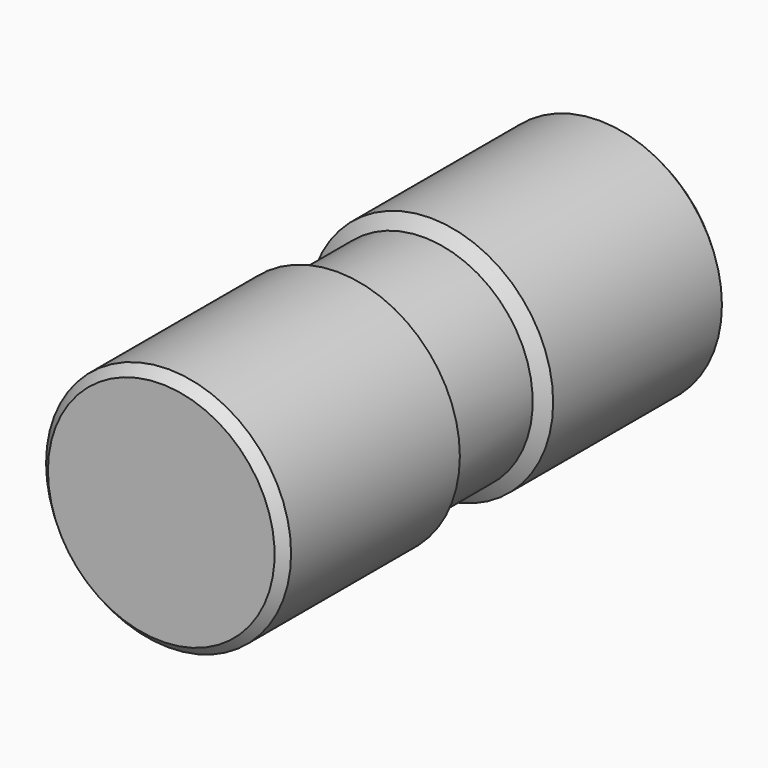
from build123d import *

# Parameters (mm, degrees)
F2_SIZE = 1.4


with BuildPart() as f1:
    # F0 (on Top) → F1 (revolve)
    with BuildSketch(Plane.XY):
        Polygon((0, -42.5), (0, 42.5), (-18.7, 42.5), (-18.7, 8.900415), (-16.7, 7.5), (-16.7, -7.5), (-18.7, -8.900415), (-18.7, -42.5), align=None)
    revolve(axis=Axis((0, 0, 0), (0, -1, 0)))

    # F2
    f2_edges = [f1.edges().sort_by_distance(p)[0] for p in [
        (18.7, 42.5, 0),
        (18.7, -42.5, 0),
    ]]
    chamfer(f2_edges, length=F2_SIZE)


solid = f1.part
